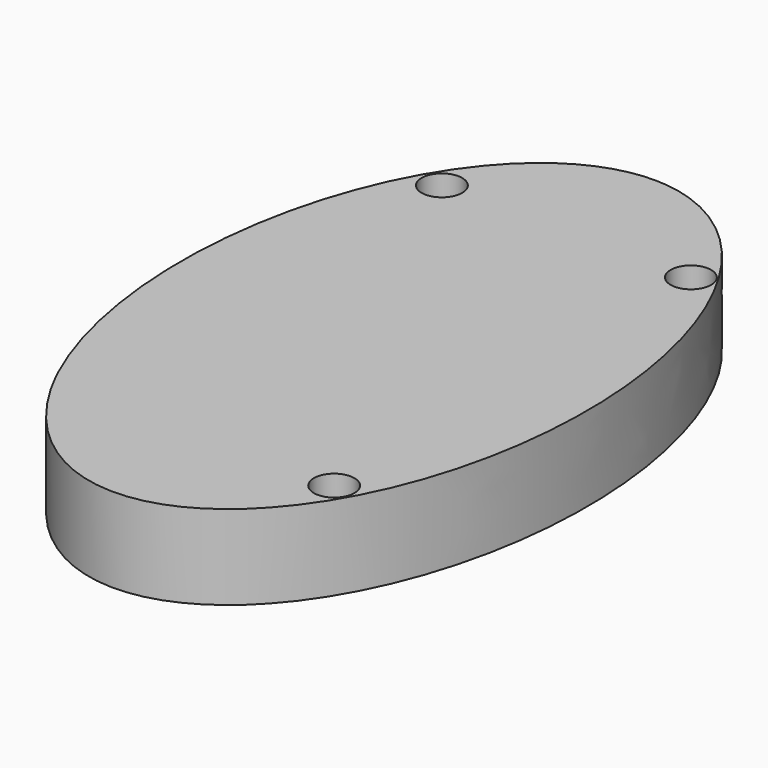
from build123d import *

# Parameters (mm, degrees)
F0_R     = 6
F1_DEPTH = 25


with BuildPart() as f1:
    # F0 (on Top) → F1 (new body)
    with BuildSketch(Plane.XY):
        with BuildLine():
            add(Edge.make_bspline(
                [(-43.4229979183, -69.0097266049), (19.3497123085, -178.7277249705), (55.1559160824, -39.3638624852), (90.9621198563, 100), (0, 100)],
                knots=[2.3324197689, 2.3324197689, 2.3324197689, 4.307802538, 4.307802538, 6.2831853072, 6.2831853072, 6.2831853072], degree=2, weights=[1, 0.5506184592, 1, 0.5506184592, 1]))
            add(Edge.make_bspline(
                [(0, 100), (-137.9405700882, 100), (-43.8920639473, -68.1804534234)],
                knots=[0, 0, 0, 2.3210229145, 2.3210229145, 2.3210229145], degree=2, weights=[1, 0.3988705716, 1]))
            ThreePointArc((-43.8920639473, -68.1804534234), (-39.7471566146, -59.791965737), (-32.4515747428, -65.6504184008))
            ThreePointArc((-32.4515747428, -65.6504184008), (-36.6949500038, -71.3875143148), (-43.4229979183, -69.0097266049))
        make_face()
        with Locations((37.7752184868, -65.6504184008)):
            Circle(F0_R, mode=Mode.SUBTRACT)
        with Locations((-36.6366505623, 67.2019943595)):
            Circle(F0_R, mode=Mode.SUBTRACT)
        with Locations((37.0492488146, 67.2019943595)):
            Circle(F0_R, mode=Mode.SUBTRACT)
        with BuildLine():
            ThreePointArc((-32.4515747428, -65.6504184008), (-39.7471566146, -59.791965737), (-43.8920639473, -68.1804534234))
            add(Edge.make_bspline(
                [(-43.8920639473, -68.1804534234), (-43.658948614, -68.5973174871), (-43.4229979183, -69.0097266049)],
                knots=[2.3210229145, 2.3210229145, 2.3210229145, 2.3324197689, 2.3324197689, 2.3324197689], degree=2, weights=[1, 0.999983764, 1]))
            ThreePointArc((-43.4229979183, -69.0097266049), (-36.6949500038, -71.3875143148), (-32.4515747428, -65.6504184008))
        make_face()
        with BuildLine():
            add(Edge.make_bspline(
                [(-43.8920639473, -68.1804534234), (-43.658948614, -68.5973174871), (-43.4229979183, -69.0097266049)],
                knots=[2.3210229145, 2.3210229145, 2.3210229145, 2.3324197689, 2.3324197689, 2.3324197689], degree=2, weights=[1, 0.999983764, 1]))
            ThreePointArc((-43.8920639473, -68.1804534234), (-43.6740170215, -68.6044151248), (-43.4229979183, -69.0097266049))
        make_face()
    extrude(amount=F1_DEPTH)


solid = f1.part
